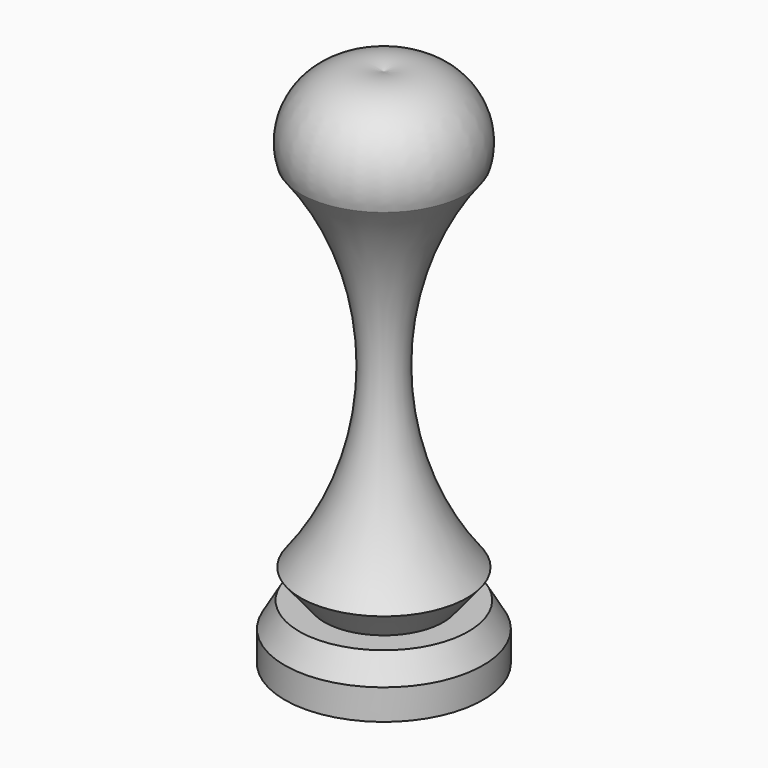
from build123d import *


with BuildPart() as f1:
    # F0 (on Front) → F1 (revolve)
    with BuildSketch(Plane.XZ):
        with BuildLine():
            Line((0, -43.350875), (0, 71.281634))
            ThreePointArc((0, 71.281634), (-14.544436, 67.963835), (-18.329564, 53.533964))
            ThreePointArc((-18.329564, 53.533964), (-4.710892, 14.4018), (-18.329564, -24.730364))
            Line((-18.329564, -24.730364), (-13.092546, -31.131163))
            Line((-13.092546, -31.131163), (-18.62051, -31.131163))
            Line((-18.62051, -31.131163), (-21.820908, -36.659129))
            Line((-21.820908, -36.659129), (-21.820908, -43.350875))
            Line((-21.820908, -43.350875), (0, -43.350875))
        make_face()
    revolve(axis=Axis((0, 0, 13.965379), (0, 0, -1)))


solid = f1.part
